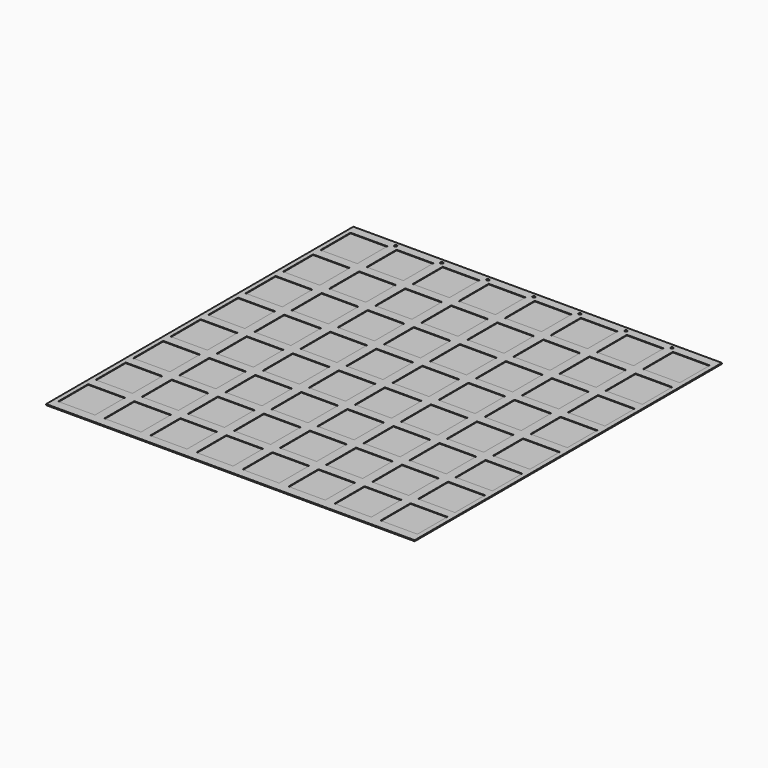
from build123d import *

# Parameters (mm, degrees)
F0_W      = 1511.3
F0_H      = 1574.8
F1_DEPTH  = 1.5875
F2_W      = 38.1
F2_H      = 1574.8
F3_DEPTH  = 2.54
F2_W_2    = 19.05
F4_W      = 774.8905
F4_H      = 38.1
F4_W_2    = 150.749
F4_W_3    = 585.6605
F5_DEPTH  = 2.54
F7_R      = 5.588
F8_DEPTH  = 25.4
F9_R      = 5.588
F10_DEPTH = 1.5885
F11_R     = 5.588
F12_DEPTH = 4.1285


with BuildPart() as f1:
    # F0 (on Top) → F1 (new body)
    with BuildSketch(Plane.XY):
        Rectangle(F0_W, F0_H)
    extrude(amount=F1_DEPTH)


with BuildPart() as f3:
    # F2 (on face) → F3 (new body)
    with BuildSketch(Plane.XY.offset(1.5875)):
        with Locations((-566.7375, 0)):
            Rectangle(F2_W, F2_H)
    extrude(amount=F3_DEPTH)


with BuildPart() as f3b:
    # F2 (on face) → F3, piece 2 (new body)
    with BuildSketch(Plane.XY.offset(1.5875)):
        with Locations((-377.8885, 0)):
            Rectangle(F2_W, F2_H)
    extrude(amount=F3_DEPTH)


with BuildPart() as f3c:
    # F2 (on face) → F3, piece 3 (new body)
    with BuildSketch(Plane.XY.offset(1.5875)):
        with Locations((-189.0395, 0)):
            Rectangle(F2_W, F2_H)
    extrude(amount=F3_DEPTH)


with BuildPart() as f3d:
    # F2 (on face) → F3, piece 4 (new body)
    with BuildSketch(Plane.XY.offset(1.5875)):
        with Locations((-0.1905, 0)):
            Rectangle(F2_W, F2_H)
    extrude(amount=F3_DEPTH)


with BuildPart() as f3e:
    # F2 (on face) → F3, piece 5 (new body)
    with BuildSketch(Plane.XY.offset(1.5875)):
        with Locations((188.6585, 0)):
            Rectangle(F2_W, F2_H)
    extrude(amount=F3_DEPTH)


with BuildPart() as f3f:
    # F2 (on face) → F3, piece 6 (new body)
    with BuildSketch(Plane.XY.offset(1.5875)):
        with Locations((-746.125, 0)):
            Rectangle(F2_W_2, F2_H)
    extrude(amount=F3_DEPTH)


with BuildPart() as f3g:
    # F2 (on face) → F3, piece 7 (new body)
    with BuildSketch(Plane.XY.offset(1.5875)):
        with Locations((377.5075, 0)):
            Rectangle(F2_W, F2_H)
    extrude(amount=F3_DEPTH)


with BuildPart() as f3h:
    # F2 (on face) → F3, piece 8 (new body)
    with BuildSketch(Plane.XY.offset(1.5875)):
        with Locations((566.3565, 0)):
            Rectangle(F2_W, F2_H)
    extrude(amount=F3_DEPTH)


with BuildPart() as f3i:
    # F2 (on face) → F3, piece 9 (new body)
    with BuildSketch(Plane.XY.offset(1.5875)):
        with Locations((746.125, 0)):
            Rectangle(F2_W_2, F2_H)
    extrude(amount=F3_DEPTH)


with BuildPart() as f5:
    # F4 (on face) → F5 (new body)
    with BuildSketch(Plane.XY.offset(1.5875)):
        with Locations((368.20475, -768.35)):
            Rectangle(F4_W, F4_H)
        with Locations((-94.615, -768.35)):
            Rectangle(F4_W_2, F4_H)
        with Locations((-462.81975, -768.35)):
            Rectangle(F4_W_3, F4_H)
    extrude(amount=F5_DEPTH)


with BuildPart() as f5b:
    # F4 (on face) → F5, piece 2 (new body)
    with BuildSketch(Plane.XY.offset(1.5875)):
        with Locations((-462.81975, -576.2625)):
            Rectangle(F4_W_3, F4_H)
        with Locations((-94.615, -576.2625)):
            Rectangle(F4_W_2, F4_H)
        with Locations((368.20475, -576.2625)):
            Rectangle(F4_W, F4_H)
    extrude(amount=F5_DEPTH)


with BuildPart() as f5c:
    # F4 (on face) → F5, piece 3 (new body)
    with BuildSketch(Plane.XY.offset(1.5875)):
        with Locations((-462.81975, -384.175)):
            Rectangle(F4_W_3, F4_H)
        with Locations((-94.615, -384.175)):
            Rectangle(F4_W_2, F4_H)
        with Locations((368.20475, -384.175)):
            Rectangle(F4_W, F4_H)
    extrude(amount=F5_DEPTH)


with BuildPart() as f5d:
    # F4 (on face) → F5, piece 4 (new body)
    with BuildSketch(Plane.XY.offset(1.5875)):
        with Locations((368.20475, -192.0875)):
            Rectangle(F4_W, F4_H)
        with Locations((-94.615, -192.0875)):
            Rectangle(F4_W_2, F4_H)
        with Locations((-462.81975, -192.0875)):
            Rectangle(F4_W_3, F4_H)
    extrude(amount=F5_DEPTH)


with BuildPart() as f5e:
    # F4 (on face) → F5, piece 5 (new body)
    with BuildSketch(Plane.XY.offset(1.5875)):
        with Locations((-462.81975, 0)):
            Rectangle(F4_W_3, F4_H)
        with Locations((-94.615, 0)):
            Rectangle(F4_W_2, F4_H)
        with Locations((368.20475, 0)):
            Rectangle(F4_W, F4_H)
    extrude(amount=F5_DEPTH)


with BuildPart() as f5f:
    # F4 (on face) → F5, piece 6 (new body)
    with BuildSketch(Plane.XY.offset(1.5875)):
        with Locations((368.20475, 192.0875)):
            Rectangle(F4_W, F4_H)
        with Locations((-462.81975, 192.0875)):
            Rectangle(F4_W_3, F4_H)
        with Locations((-94.615, 192.0875)):
            Rectangle(F4_W_2, F4_H)
    extrude(amount=F5_DEPTH)


with BuildPart() as f5g:
    # F4 (on face) → F5, piece 7 (new body)
    with BuildSketch(Plane.XY.offset(1.5875)):
        with Locations((368.20475, 384.175)):
            Rectangle(F4_W, F4_H)
        with Locations((-462.81975, 384.175)):
            Rectangle(F4_W_3, F4_H)
        with Locations((-94.615, 384.175)):
            Rectangle(F4_W_2, F4_H)
    extrude(amount=F5_DEPTH)


with BuildPart() as f5h:
    # F4 (on face) → F5, piece 8 (new body)
    with BuildSketch(Plane.XY.offset(1.5875)):
        with Locations((-462.81975, 576.2625)):
            Rectangle(F4_W_3, F4_H)
        with Locations((-94.615, 576.2625)):
            Rectangle(F4_W_2, F4_H)
        with Locations((368.20475, 576.2625)):
            Rectangle(F4_W, F4_H)
    extrude(amount=F5_DEPTH)


with BuildPart() as f5i:
    # F4 (on face) → F5, piece 9 (new body)
    with BuildSketch(Plane.XY.offset(1.5875)):
        with Locations((368.20475, 768.35)):
            Rectangle(F4_W, F4_H)
        with Locations((-462.81975, 768.35)):
            Rectangle(F4_W_3, F4_H)
        with Locations((-94.615, 768.35)):
            Rectangle(F4_W_2, F4_H)
    extrude(amount=F5_DEPTH)

    # F6: union F3f, F3, F3b, F5h, F3c, F3d, F3e, F3g, F3h, F3i, F5g, F5f, F5e, F5d, F5c, F5b, F5
    add(f3f.part)
    add(f3.part)
    add(f3b.part)
    add(f5h.part)
    add(f3c.part)
    add(f3d.part)
    add(f3e.part)
    add(f3g.part)
    add(f3h.part)
    add(f3i.part)
    add(f5g.part)
    add(f5f.part)
    add(f5e.part)
    add(f5d.part)
    add(f5c.part)
    add(f5b.part)
    add(f5.part)


with BuildPart() as f8_tool:
    # F7 (on face) → F8 (new body)
    with BuildSketch(Plane.XY.offset(4.1275)):
        with BuildLine():
            Line((-566.7375, 762.762), (-566.7375, 773.938))
            ThreePointArc((-566.7375, 773.938), (-572.3255, 768.35), (-566.7375, 762.762))
        make_face()
        with BuildLine():
            ThreePointArc((-561.1495, 768.35), (-562.7861873067, 772.3013126933), (-566.7375, 773.938))
            Line((-566.7375, 773.938), (-566.7375, 762.762))
            ThreePointArc((-566.7375, 762.762), (-562.7861873067, 764.3986873067), (-561.1495, 768.35))
        make_face()
        with Locations((-377.8885, 768.35)):
            Circle(F7_R)
        with Locations((-189.0395, 768.35)):
            Circle(F7_R)
        with Locations((-0.1905, 768.35)):
            Circle(F7_R)
        with Locations((188.6585, 768.35)):
            Circle(F7_R)
        with Locations((377.5075, 768.35)):
            Circle(F7_R)
        with Locations((566.3565, 768.35)):
            Circle(F7_R)
    extrude(amount=-F8_DEPTH)


with BuildPart() as f1_1:
    add(f1.part)

    # F8: cut by f8_tool
    add(f8_tool.part, mode=Mode.SUBTRACT)

    # F9 (on face) → F10 (cut, through all)
    with BuildSketch(Plane.XY.offset(1.5875)):
        with Locations((-566.7375, 768.35)):
            Circle(F9_R)
        with Locations((-377.8885, 768.35)):
            Circle(F9_R)
        with Locations((-189.0395, 768.35)):
            Circle(F9_R)
        with Locations((-0.1905, 768.35)):
            Circle(F9_R)
    extrude(amount=-F10_DEPTH, mode=Mode.SUBTRACT)

    # F11 (on face) → F12 (cut, through all)
    with BuildSketch(Plane.XY):
        with Locations((188.6585, 768.35)):
            Circle(F11_R)
        with Locations((377.5075, 768.35)):
            Circle(F11_R)
        with Locations((566.3565, 768.35)):
            Circle(F11_R)
    extrude(amount=F12_DEPTH, mode=Mode.SUBTRACT)


with BuildPart() as f5i_1:
    add(f5i.part)

    # F8: cut by f8_tool
    add(f8_tool.part, mode=Mode.SUBTRACT)


solid = Compound([f1_1.part, f5i_1.part])
